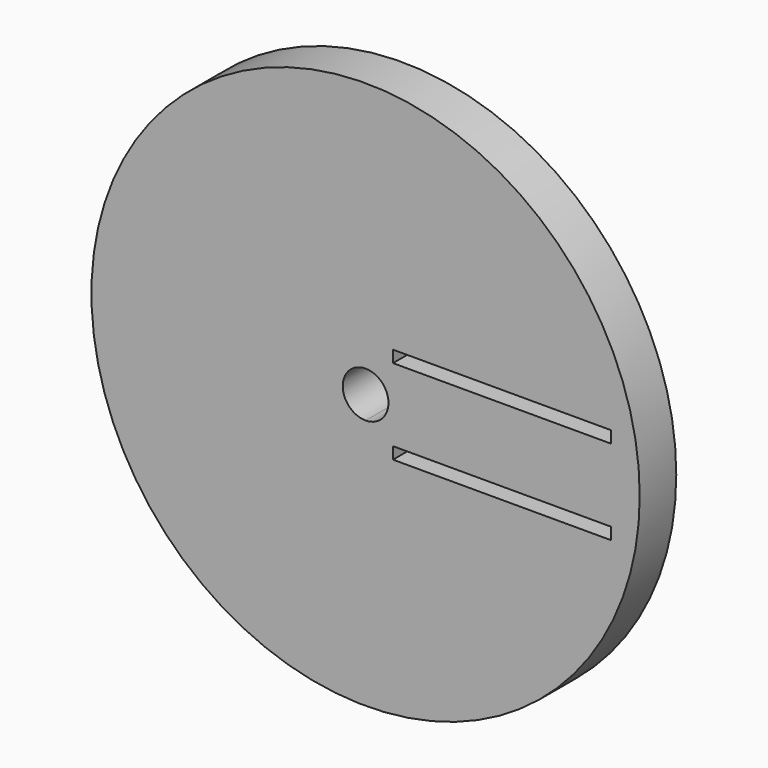
from build123d import *

# Parameters (mm, degrees)
F0_R     = 76.2
F0_W     = 60.587234
F0_H     = 3.302
F1_DEPTH = 12.7


with BuildPart() as f1:
    # F0 (on Front) → F1 (new body)
    with BuildSketch(Plane.XZ):
        Circle(F0_R)
        with Locations((37.913617, -11.811)):
            Rectangle(F0_W, F0_H, mode=Mode.SUBTRACT)
        with BuildLine():
            ThreePointArc((0, -6.35), (-6.35, 0), (0, 6.35))
            Line((0, 6.35), (0, 10.16))
            Line((0, 10.16), (7.62, 10.16))
            Line((7.62, 10.16), (7.62, 1.651))
            Line((7.62, 1.651), (68.58, 1.651))
            Line((68.58, 1.651), (68.58, -1.651))
            Line((68.58, -1.651), (7.62, -1.651))
            Line((7.62, -1.651), (7.62, -10.16))
            Line((7.62, -10.16), (0, -10.16))
            Line((0, -10.16), (0, -6.35))
        make_face(mode=Mode.SUBTRACT)
        with Locations((37.913617, 11.811)):
            Rectangle(F0_W, F0_H, mode=Mode.SUBTRACT)
        with BuildLine():
            ThreePointArc((0, 6.35), (4.490128, 4.490128), (6.35, 0))
            Line((6.35, 0), (7.62, 0))
            Line((7.62, 0), (7.62, 1.651))
            Line((7.62, 1.651), (7.62, 10.16))
            Line((7.62, 10.16), (0, 10.16))
            Line((0, 10.16), (0, 6.35))
        make_face()
        with BuildLine():
            Line((7.62, 0), (6.35, 0))
            ThreePointArc((6.35, 0), (4.490128, -4.490128), (0, -6.35))
            Line((0, -6.35), (0, -10.16))
            Line((0, -10.16), (7.62, -10.16))
            Line((7.62, -10.16), (7.62, -1.651))
            Line((7.62, -1.651), (7.62, 0))
        make_face()
        Polygon((7.62, 1.651), (7.62, 0), (7.62, -1.651), (68.58, -1.651), (68.58, 1.651), align=None)
    extrude(amount=F1_DEPTH)


solid = f1.part
